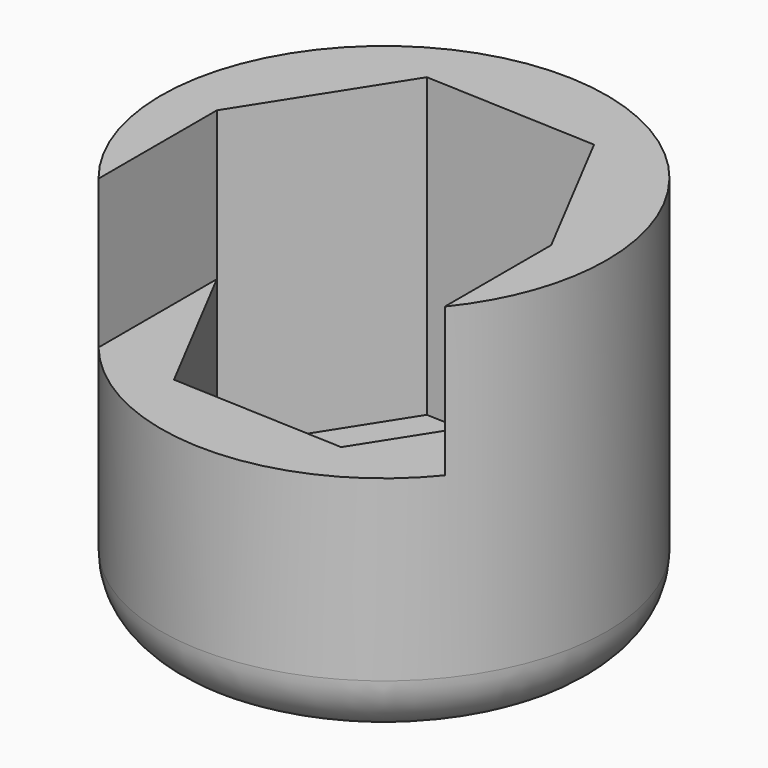
from build123d import *

# Parameters (mm, degrees)
F0_R     = 7.5
F1_DEPTH = 13
F2_R     = 3.05
F3_DEPTH = 12
F5_R     = 3.05
F6_DEPTH = 10
F8_DEPTH = 5
F9_R     = 2


with BuildPart() as f1:
    # F0 (on Top) → F1 (new body)
    with BuildSketch(Plane.XY):
        Circle(F0_R)
    extrude(amount=F1_DEPTH)

    # F2 (on face) → F3 (cut)
    with BuildSketch(Plane.XY.offset(13)):
        Circle(F2_R)
    extrude(amount=-F3_DEPTH, mode=Mode.SUBTRACT)

    # F5 (on face) → F6 (cut)
    with BuildSketch(Plane.XY.offset(13)):
        Polygon((5.8257949863, -0.2518851143), (3.1310364009, 4.9193438983), (-2.6947585854, 5.1712290125), (-5.8257949863, 0.2518851143), (-3.1310364009, -4.9193438983), (2.6947585854, -5.1712290125), align=None)
        Circle(F5_R, mode=Mode.SUBTRACT)
    extrude(amount=-F6_DEPTH, mode=Mode.SUBTRACT)

    # F7 (on face) → F8 (cut)
    with BuildSketch(Plane.XY.offset(13)):
        with BuildLine():
            Line((-3.1310364009, -4.9193438983), (-5.8257949863, 0.2518851143))
            Line((-5.8257949863, 0.2518851143), (-5.8257949863, -4.7233582097))
            ThreePointArc((-5.8257949863, -4.7233582097), (0, -7.5), (5.8257949863, -4.7233582097))
            Line((5.8257949863, -4.7233582097), (5.8257949863, -0.2518851143))
            Line((5.8257949863, -0.2518851143), (2.6947585854, -5.1712290125))
            Line((2.6947585854, -5.1712290125), (-3.1310364009, -4.9193438983))
        make_face()
    extrude(amount=-F8_DEPTH, mode=Mode.SUBTRACT)

    # F9
    f9_edges = [f1.edges().sort_by_distance(p)[0] for p in [
        (-7.5, 0, 0),
    ]]
    fillet(f9_edges, radius=F9_R)


solid = f1.part
